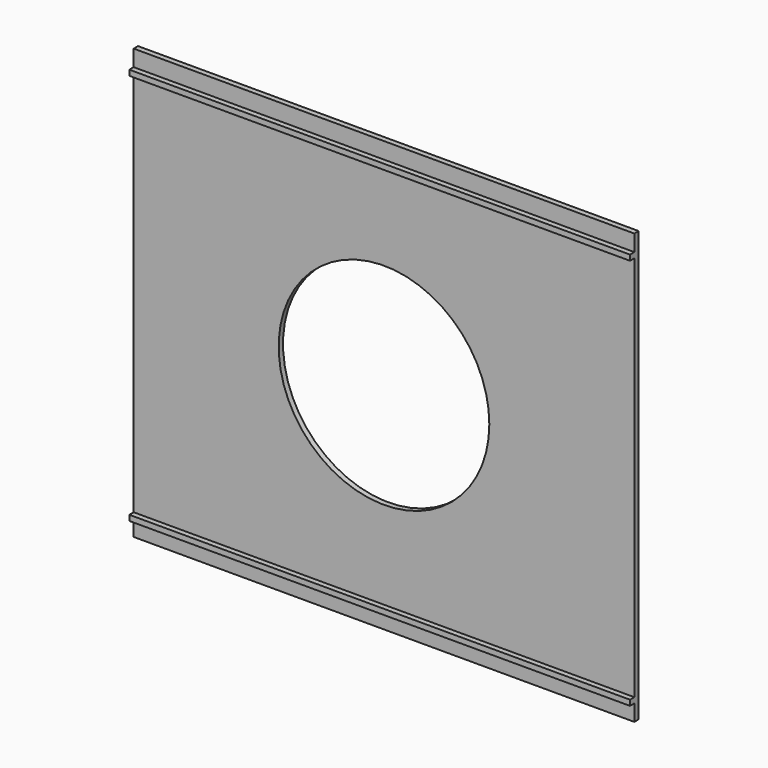
from build123d import *

# Parameters (mm, degrees)
F0_W     = 92
F0_H     = 79
F0_R     = 19.352755
F1_DEPTH = 1
F2_W     = 92
F2_H     = 1
F3_DEPTH = 1


with BuildPart() as f1:
    # F0 (on Front) → F1 (new body)
    with BuildSketch(Plane.XZ):
        Rectangle(F0_W, F0_H)
        Circle(F0_R, mode=Mode.SUBTRACT)
    extrude(amount=F1_DEPTH)

    # F2 (on face) → F3 (join)
    with BuildSketch(Plane.XZ.offset(1)):
        with Locations((0, 36)):
            Rectangle(F2_W, F2_H)
        with Locations((0, -36)):
            Rectangle(F2_W, F2_H)
    extrude(amount=F3_DEPTH)


solid = f1.part
